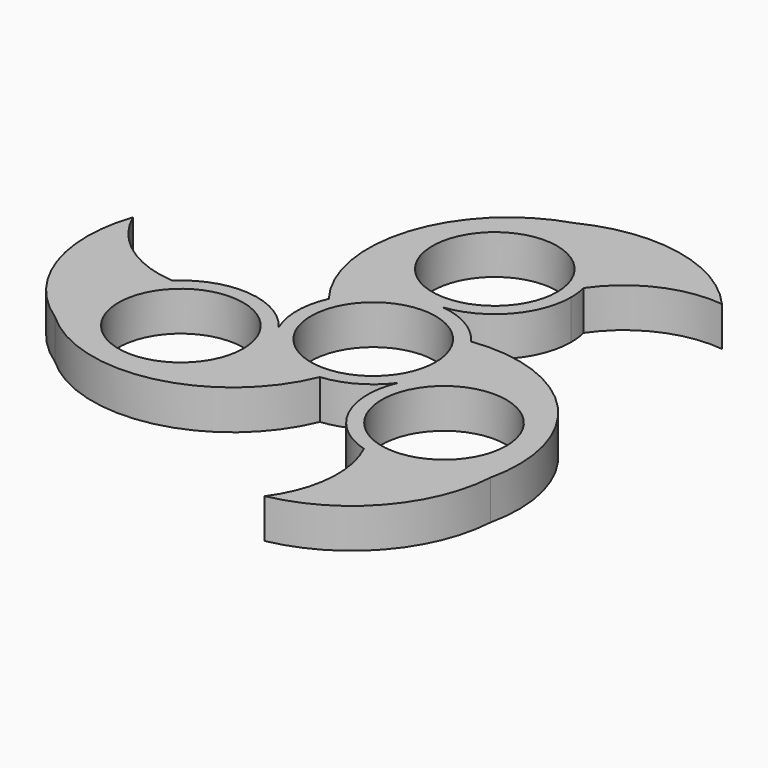
from build123d import *

# Parameters (mm, degrees)
F0_R     = 11.05
F1_DEPTH = 7


with BuildPart() as f1:
    # F0 (on Top) → F1 (new body)
    with BuildSketch(Plane.XY):
        with BuildLine():
            ThreePointArc((-1.557259, 13.460217), (0, 13.370434), (1.557259, 13.460217))
            ThreePointArc((1.557259, 13.460217), (0, 13.55), (-1.557259, 13.460217))
        make_face()
        with BuildLine():
            ThreePointArc((-12.43552, -5.381482), (-11.734644, -6.775), (-10.87826, -8.078735))
            ThreePointArc((-10.87826, -8.078735), (-11.579136, -6.685217), (-12.43552, -5.381482))
        make_face()
        with BuildLine():
            ThreePointArc((10.87826, -8.078735), (11.734644, -6.775), (12.43552, -5.381482))
            ThreePointArc((12.43552, -5.381482), (11.579136, -6.685217), (10.87826, -8.078735))
        make_face()
        with BuildLine():
            ThreePointArc((-1.557259, 13.460217), (0, 13.55), (1.557259, 13.460217))
            ThreePointArc((1.557259, 13.460217), (10.116901, 17.906511), (13.55, 26.920434))
            ThreePointArc((13.55, 26.920434), (13.452548, 28.542612), (13.161593, 30.141456))
            ThreePointArc((13.161593, 30.141456), (-10.160269, 35.885446), (-1.557259, 13.460217))
        make_face()
        with Locations((0, 26.920434)):
            Circle(F0_R, mode=Mode.SUBTRACT)
        with BuildLine():
            ThreePointArc((-9.76378, -13.460217), (-10.045325, -10.712381), (-10.87826, -8.078735))
            ThreePointArc((-10.87826, -8.078735), (-11.734644, -6.775), (-12.43552, -5.381482))
            ThreePointArc((-12.43552, -5.381482), (-22.174178, 0.041776), (-32.684063, -3.672454))
            ThreePointArc((-32.684063, -3.672454), (-28.635207, -25.921554), (-9.76378, -13.460217))
        make_face()
        with Locations((-23.31378, -13.460217)):
            Circle(F0_R, mode=Mode.SUBTRACT)
        with BuildLine():
            ThreePointArc((36.86378, -13.460217), (27.568311, -0.59548), (12.43552, -5.381482))
            ThreePointArc((12.43552, -5.381482), (11.734644, -6.775), (10.87826, -8.078735))
            ThreePointArc((10.87826, -8.078735), (11.05091, -19.224289), (19.52247, -26.469001))
            ThreePointArc((19.52247, -26.469001), (31.444901, -24.299376), (36.86378, -13.460217))
        make_face()
        with Locations((23.31378, -13.460217)):
            Circle(F0_R, mode=Mode.SUBTRACT)
        with BuildLine():
            ThreePointArc((12.43552, -5.381482), (13.268455, -2.747836), (13.55, 0))
            ThreePointArc((13.55, 0), (12.900613, 4.144478), (11.014695, 7.891705))
            ThreePointArc((11.014695, 7.891705), (6.874997, 11.67634), (1.557259, 13.460217))
            ThreePointArc((1.557259, 13.460217), (0, 13.370434), (-1.557259, 13.460217))
            ThreePointArc((-1.557259, 13.460217), (-7.985511, 10.946877), (-12.341764, 5.593153))
            ThreePointArc((-12.341764, 5.593153), (-13.549506, 0.115753), (-12.43552, -5.381482))
            ThreePointArc((-12.43552, -5.381482), (-11.579136, -6.685217), (-10.87826, -8.078735))
            ThreePointArc((-10.87826, -8.078735), (-5.487518, -12.389094), (1.327069, -13.484858))
            ThreePointArc((1.327069, -13.484858), (6.674508, -11.792092), (10.87826, -8.078735))
            ThreePointArc((10.87826, -8.078735), (11.579136, -6.685217), (12.43552, -5.381482))
        make_face()
        Circle(F0_R, mode=Mode.SUBTRACT)
        with BuildLine():
            ThreePointArc((-38.576455, -22.272127), (-16.323956, -28.326277), (1.327069, -13.484858))
            ThreePointArc((1.327069, -13.484858), (-5.487518, -12.389094), (-10.87826, -8.078735))
            ThreePointArc((-10.87826, -8.078735), (-10.045325, -10.712381), (-9.76378, -13.460217))
            ThreePointArc((-9.76378, -13.460217), (-28.635207, -25.921554), (-32.684063, -3.672454))
            ThreePointArc((-32.684063, -3.672454), (-42.309382, -0.189456), (-48.765836, 7.753609))
            ThreePointArc((-48.765836, 7.753609), (-48.783161, -8.994047), (-38.576455, -22.272127))
        make_face()
        with BuildLine():
            ThreePointArc((-12.341764, 5.593153), (-7.985511, 10.946877), (-1.557259, 13.460217))
            ThreePointArc((-1.557259, 13.460217), (-10.160269, 35.885446), (13.161593, 30.141456))
            ThreePointArc((13.161593, 30.141456), (20.990618, 36.735728), (31.09774, 38.355649))
            ThreePointArc((31.09774, 38.355649), (16.602508, 46.74448), (0, 44.544253))
            ThreePointArc((0, 44.544253), (-16.369297, 28.300099), (-12.341764, 5.593153))
        make_face()
        with BuildLine():
            ThreePointArc((11.014695, 7.891705), (12.900613, 4.144478), (13.55, 0))
            ThreePointArc((13.55, 0), (13.268455, -2.747836), (12.43552, -5.381482))
            ThreePointArc((12.43552, -5.381482), (27.568311, -0.59548), (36.86378, -13.460217))
            ThreePointArc((36.86378, -13.460217), (31.444901, -24.299376), (19.52247, -26.469001))
            ThreePointArc((19.52247, -26.469001), (21.318765, -36.546272), (17.668096, -46.109257))
            ThreePointArc((17.668096, -46.109257), (32.180654, -37.750434), (38.576455, -22.272127))
            ThreePointArc((38.576455, -22.272127), (32.693253, 0.026177), (11.014695, 7.891705))
        make_face()
    extrude(amount=F1_DEPTH)


solid = f1.part
